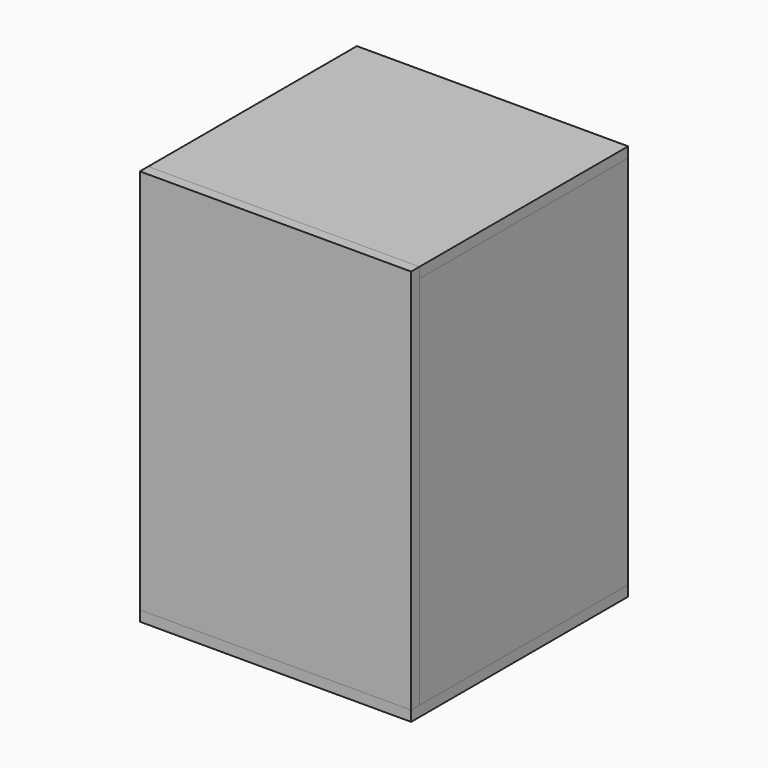
from build123d import *

# Parameters (mm, degrees)
F1_DEPTH = 914.4
F0_W     = 609.6
F0_H     = 25.4
F2_DEPTH = 914.4
F3_W     = 660.4
F3_H     = 635
F4_DEPTH = 25.4
F5_W     = 660.4
F5_H     = 660.4
F6_DEPTH = 25.4
F7_W     = 660.4
F7_H     = 939.8
F8_DEPTH = 25.4


with BuildPart() as f1:
    # F0 (on Top) → F1 (new body)
    with BuildSketch(Plane.XY):
        Polygon((-330.2, -304.8), (-304.8, -304.8), (-304.8, 304.8), (-304.8, 330.2), (-330.2, 330.2), align=None)
        Polygon((304.8, 304.8), (304.8, -304.8), (330.2, -304.8), (330.2, 330.2), (304.8, 330.2), align=None)
    extrude(amount=F1_DEPTH)


with BuildPart() as f2:
    # F0 (on Top) → F2 (new body, through all)
    with BuildSketch(Plane.XY):
        with Locations((0, 317.5)):
            Rectangle(F0_W, F0_H)
    extrude(amount=F2_DEPTH)


with BuildPart() as f4:
    # F3 (on face) → F4 (new body)
    with BuildSketch(Plane.XY.offset(914.4)):
        with Locations((0, 12.7)):
            Rectangle(F3_W, F3_H)
    extrude(amount=F4_DEPTH)


with BuildPart() as f6:
    # F5 (on Top) → F6 (new body)
    with BuildSketch(Plane.XY):
        Rectangle(F5_W, F5_H)
    extrude(amount=-F6_DEPTH)


with BuildPart() as f8:
    # F7 (on face) → F8 (new body)
    with BuildSketch(Plane.XZ.offset(304.8)):
        with Locations((0, 469.9)):
            Rectangle(F7_W, F7_H)
    extrude(amount=F8_DEPTH)


solid = Compound([f1.part, f2.part, f4.part, f6.part, f8.part])
